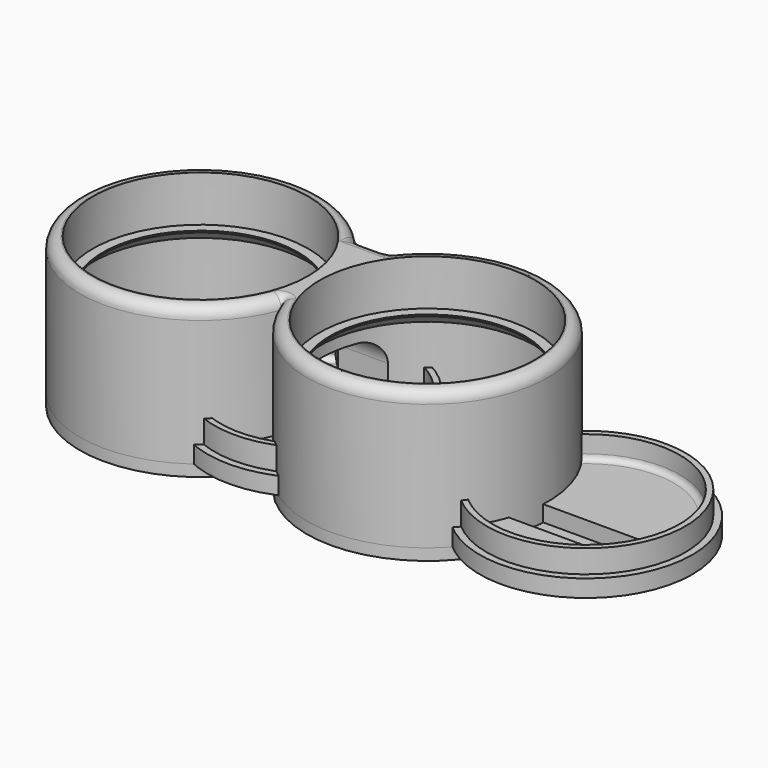
from build123d import *

# Parameters (mm, degrees)
SKETCH_R        = 2
PAD_DEPTH       = 3
CHAMFER_SIZE    = 2
POCKET_DEPTH    = 2.8
FILLET_R        = 0.99
PAD001_DEPTH    = 4
FILLET001_R     = 1
FILLET002_R     = 1
SKETCH003_R     = 18.75
PAD002_DEPTH    = 24
FILLET003_R     = 2
PAD003_START    = -8
SKETCH004_R     = 18.75
SKETCH004_R_2   = 17
PAD003_DEPTH    = 2
CHAMFER001_SIZE = 1.7
SKETCH005_W     = 20
SKETCH005_H     = 15.803444
POCKET001_DEPTH = 12
FILLET004_R     = 4
PAD004_DEPTH    = 2
FILLET005_R     = 5
SKETCH007_R     = 1.9
POCKET002_DEPTH = 5
SKETCH008_R     = 2.25
POCKET003_DEPTH = 5
CHAMFER002_SIZE = 1.5


with BuildPart() as body:
    # Sketch → Pad (new body)
    with BuildSketch(Plane.XY):
        with BuildLine():
            ThreePointArc((16.680827, 8), (-18.5, 0), (16.680827, -8))
            Line((16.680827, -8), (30.680827, -8))
            ThreePointArc((30.680827, -8), (65.861655, 0), (30.680827, 8))
            Line((16.680827, 8), (30.680827, 8))
        make_face()
        with Locations((23.680827, 3.5)):
            Circle(SKETCH_R, mode=Mode.SUBTRACT)
    extrude(amount=PAD_DEPTH)

    # Chamfer
    chamfer_edges = [body.edges().sort_by_distance(p)[0] for p in [
        (21.680827, 3.5, 3),
    ]]
    chamfer(chamfer_edges, length=CHAMFER_SIZE)

    # Sketch001 (on Face4 of Chamfer) → Pocket (cut)
    with BuildSketch(Plane.XY.offset(3)):
        Polygon((60.680827, -1), (-13.319173, -1), (-13.319173, -7), (16.680827, -7), (16.680827, -8), (30.680827, -8), (30.680827, -7), (60.680827, -7), align=None)
    extrude(amount=-POCKET_DEPTH, mode=Mode.SUBTRACT)

    # Fillet
    fillet_edges = [body.edges().sort_by_distance(p)[0] for p in [
        (16.680827, -7, 1.6),
        (30.680827, -7, 1.6),
    ]]
    fillet(fillet_edges, radius=FILLET_R)

    # Sketch002 (on Face1 of Fillet) → Pad001 (join)
    with BuildSketch(Plane.XY.offset(3)):
        with BuildLine():
            ThreePointArc((32.022489, -8), (64.661655, 0), (32.022489, 8))
            Line((32.022489, 8), (33.159894, 8))
            ThreePointArc((33.159894, -8), (63.661655, 0), (33.159894, 8))
            Line((32.022489, -8), (33.159894, -8))
        make_face()
        with BuildLine():
            ThreePointArc((15.339166, 8), (-17.3, 0), (15.339166, -8))
            Line((15.339166, -8), (14.20176, -8))
            ThreePointArc((14.20176, 8), (-16.3, 0), (14.20176, -8))
            Line((15.339166, 8), (14.20176, 8))
        make_face()
    extrude(amount=PAD001_DEPTH)

    # Fillet001
    fillet001_edges = [body.edges().sort_by_distance(p)[0] for p in [
        (-16.3, 0, 3),
    ]]
    fillet(fillet001_edges, radius=FILLET001_R)

    # Fillet002
    fillet002_edges = [body.edges().sort_by_distance(p)[0] for p in [
        (63.661655, 0, 3),
    ]]
    fillet(fillet002_edges, radius=FILLET002_R)


with BuildPart() as body001:
    # Sketch003 → Pad002 (new body)
    with BuildSketch(Plane.XY):
        with BuildLine():
            ThreePointArc((-3, 12.666393), (-40.513107, -3.145378), (0, -7.137051))
            ThreePointArc((0, -7.137051), (40.513107, -3.145378), (3, 12.666393))
            Line((-3, 12.666393), (3, 12.666393))
        make_face()
        with Locations((-19.75, 0)):
            Circle(SKETCH003_R, mode=Mode.SUBTRACT)
        with Locations((19.75, 0)):
            Circle(SKETCH003_R, mode=Mode.SUBTRACT)
    extrude(amount=PAD002_DEPTH)

    # Fillet003
    fillet003_edges = [body001.edges().sort_by_distance(p)[0] for p in [
        (0, 12.666393, 24),
        (40.513107, -3.145378, 24),
        (-40.513107, -3.145378, 24),
    ]]
    fillet(fillet003_edges, radius=FILLET003_R)

    # Sketch004 (on Face7 of Fillet003) → Pad003 (join)
    with BuildSketch(Plane.XY.offset(24).offset(PAD003_START)):
        with Locations((-19.75, 0)):
            Circle(SKETCH004_R)
        with Locations((-19.75, 0)):
            Circle(SKETCH004_R_2, mode=Mode.SUBTRACT)
        with Locations((19.75, 0)):
            Circle(SKETCH004_R)
        with Locations((19.75, 0)):
            Circle(SKETCH004_R_2, mode=Mode.SUBTRACT)
    extrude(amount=-PAD003_DEPTH)

    # Chamfer001
    chamfer001_edges = [body001.edges().sort_by_distance(p)[0] for p in [
        (-36.75, 0, 14),
        (2.75, 0, 14),
    ]]
    chamfer(chamfer001_edges, length=CHAMFER001_SIZE)

    # Sketch005 (on Face5 of Chamfer001) → Pocket001 (cut)
    with BuildSketch(Plane(origin=(0, 0, 0), x_dir=(1, 0, 0), z_dir=(0, 0, -1))):
        with Locations((0, -2.764671)):
            Rectangle(SKETCH005_W, SKETCH005_H)
    extrude(amount=-POCKET001_DEPTH, mode=Mode.SUBTRACT)

    # Fillet004
    fillet004_edges = [body001.edges().sort_by_distance(p)[0] for p in [
        (0, 10.666393, 12),
        (0, -5.137051, 12),
    ]]
    fillet(fillet004_edges, radius=FILLET004_R)

    # Sketch006 (on Face4 of Fillet004) → Pad004 (join)
    with BuildSketch(Plane(origin=(0, 0, 0), x_dir=(1, 0, 0), z_dir=(0, 0, -1))):
        with BuildLine():
            ThreePointArc((0, 7.137051), (-40.513107, 3.145378), (-3, -12.666393))
            Line((-3, -12.666393), (3, -12.666393))
            ThreePointArc((3, -12.666393), (40.513107, 3.145378), (0, 7.137051))
        make_face()
    extrude(amount=PAD004_DEPTH)

    # Fillet005
    fillet005_edges = [body001.edges().sort_by_distance(p)[0] for p in [
        (-3, 12.666393, 10),
        (3, 12.666393, 10),
    ]]
    fillet(fillet005_edges, radius=FILLET005_R)

    # Sketch007 (on Face26 of Fillet005) → Pocket002 (cut)
    with BuildSketch(Plane.XZ.offset(-10.666393)):
        with Locations((0, 2.2)):
            Circle(SKETCH007_R)
    extrude(amount=-POCKET002_DEPTH, mode=Mode.SUBTRACT)

    # Sketch008 (on Face23 of Pocket002) → Pocket003 (cut)
    with BuildSketch(Plane.XY):
        with Locations((-19.75, 0)):
            Circle(SKETCH008_R)
        with Locations((19.75, 0)):
            Circle(SKETCH008_R)
    extrude(amount=-POCKET003_DEPTH, mode=Mode.SUBTRACT)

    # Chamfer002
    chamfer002_edges = [body001.edges().sort_by_distance(p)[0] for p in [
        (-22, 0, 0),
        (17.5, 0, 0),
    ]]
    chamfer(chamfer002_edges, length=CHAMFER002_SIZE)


solid = Compound([body.part, body001.part])
